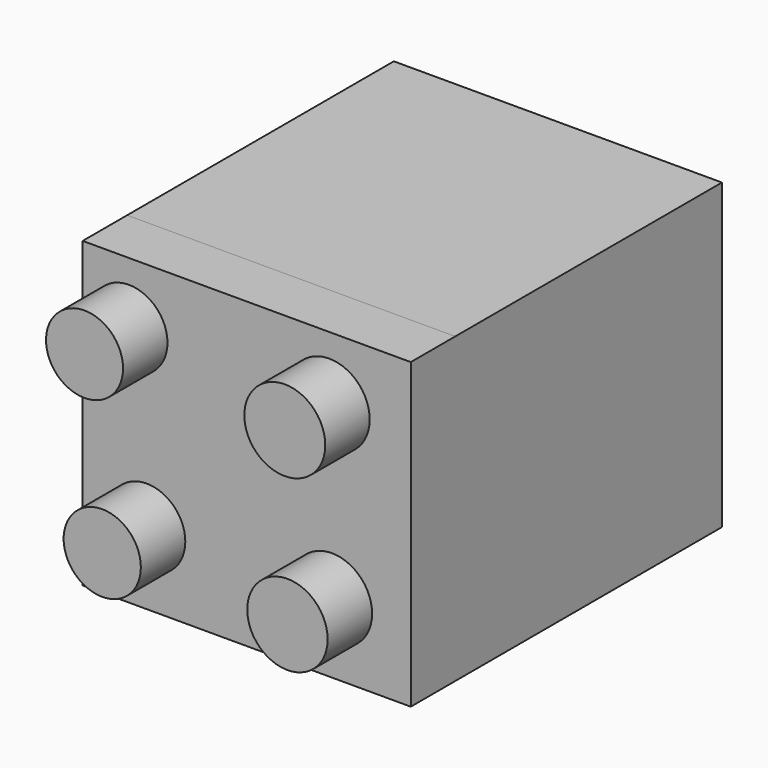
from build123d import *

# Parameters (mm, degrees)
F0_W      = 74.99788
F0_H      = 69.345481
F1_DEPTH  = 76.2
F2_R      = 9.124064
F3_DEPTH  = 12.7
F1_FACE_W = 74.99788
F1_FACE_H = 69.345482
F1_FACE_R = 9.124064
F4_DEPTH  = 12.7
F5_R      = 8.80366
F5_R_2    = 9.246901
F5_R_3    = 9.1868
F5_R_4    = 8.824608
F6_DEPTH  = 12.7


with BuildPart() as f1:
    # F0 (on Front) → F1 (new body)
    with BuildSketch(Plane.XZ):
        with Locations((-37.49894, 27.73283)):
            Rectangle(F0_W, F0_H)
    extrude(amount=F1_DEPTH)

    # F2 (on face) → F3 (join)
    with BuildSketch(Plane.XZ.offset(76.2)):
        with Locations((-60.767088, 47.398333)):
            Circle(F2_R)
    extrude(amount=F3_DEPTH)

    # F1_face (on face) → F4 (join)
    with BuildSketch(Plane(origin=(-37.49894, -76.2, 27.73283), x_dir=(1, 0, 0), z_dir=(0, -1, 0))):
        Rectangle(F1_FACE_W, F1_FACE_H)
        with Locations((-23.268148, 19.665502)):
            Circle(F1_FACE_R, mode=Mode.SUBTRACT)
    extrude(amount=F4_DEPTH)

    # F5 (on face) → F6 (join)
    with BuildSketch(Plane.XZ.offset(88.9)):
        with Locations((-64.413115, 48.208561)):
            Circle(F5_R)
        with Locations((-18.635241, 47.803447)):
            Circle(F5_R_2)
        with Locations((-18.02757, 8.912507)):
            Circle(F5_R_3)
        with Locations((-60.361974, 9.520178)):
            Circle(F5_R_4)
    extrude(amount=F6_DEPTH)


solid = f1.part
